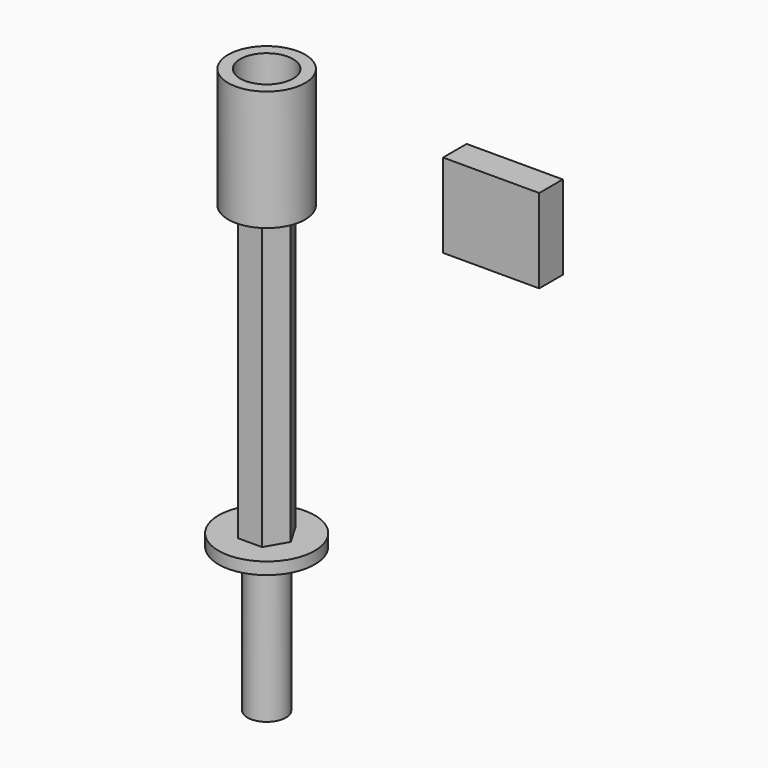
from build123d import *

# Parameters (mm, degrees)
F3_DEPTH = 76.2
F4_R     = 10.16
F4_R_2   = 6.985
F5_DEPTH = 31.75
F6_W     = 7.787004
F6_H     = 22.182271
F7_DEPTH = 25.4


with BuildPart() as f1:
    # F0 (on Front) → F1 (revolve)
    with BuildSketch(Plane.XZ):
        Polygon((-5.08, -39.887422), (0, -39.887422), (0, -1.787422), (0, 1.387578), (-12.7, 1.387578), (-12.7, -1.787422), (-5.08, -1.787422), align=None)
    revolve(axis=Axis((0, 0, -20.837422), (0, 0, 1)))

    # F2 (on face) → F3 (join)
    with BuildSketch(Plane.XY.offset(1.387578)):
        Polygon((-3.175, 5.499261), (-6.35, 0), (-3.175, -5.499261), (3.175, -5.499261), (6.35, 0), (3.175, 5.499261), align=None)
    extrude(amount=F3_DEPTH)


with BuildPart() as f5:
    # F4 (on face) → F5 (new body)
    with BuildSketch(Plane.XY.offset(77.587578)):
        Circle(F4_R)
        Circle(F4_R_2, mode=Mode.SUBTRACT)
    extrude(amount=F5_DEPTH)


with BuildPart() as f7:
    # F6 (on Right) → F7 (new body)
    with BuildSketch(Plane.YZ):
        with Locations((62.12832, 53.951665)):
            Rectangle(F6_W, F6_H)
    extrude(amount=F7_DEPTH)


solid = Compound([f1.part, f5.part, f7.part])
